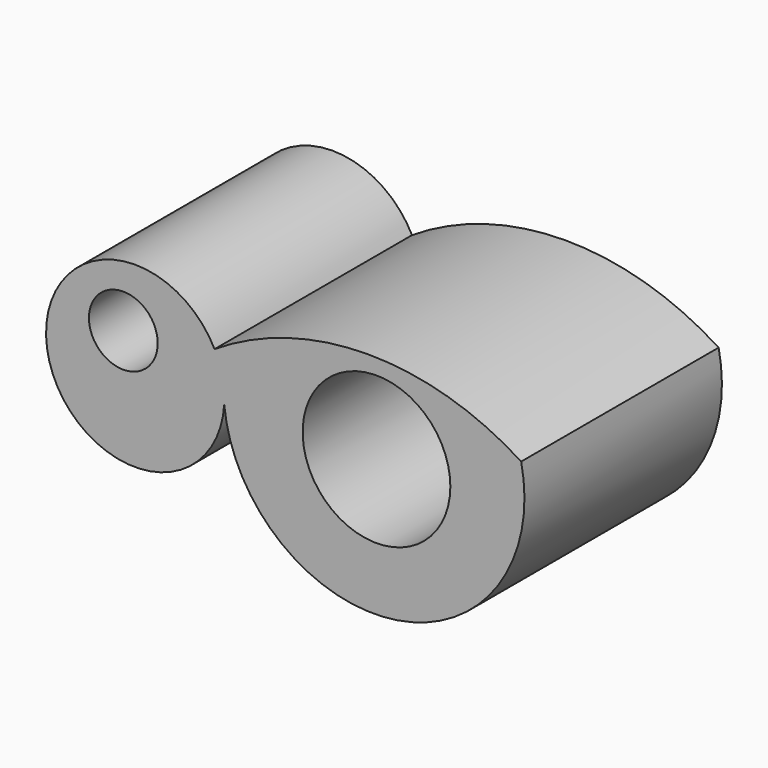
from build123d import *

# Parameters (mm, degrees)
F1_DEPTH = 351.282
F2_R     = 48.95754
F2_R_2   = 105.097299
F3_DEPTH = 1374.14


with BuildPart() as f1:
    # F0 (on Front) → F1 (new body)
    with BuildSketch(Plane.XZ):
        with BuildLine():
            ThreePointArc((391.798198, 58.458883), (173.454343, 122.011763), (-44.592593, 57.447519))
            ThreePointArc((-44.592593, 57.447519), (-281.676548, -26.572557), (-30.87141, -7.468691))
            ThreePointArc((-30.87141, -7.468691), (215.289624, -197.780053), (391.798198, 58.458883))
        make_face()
    extrude(amount=F1_DEPTH)

    # F2 (on face) → F3 (cut)
    with BuildSketch(Plane.XZ.offset(351.282)):
        with Locations((-174.473122, 38.385659)):
            Circle(F2_R)
        with Locations((185.898572, -5.635798)):
            Circle(F2_R_2)
    extrude(amount=-F3_DEPTH, mode=Mode.SUBTRACT)


solid = f1.part
